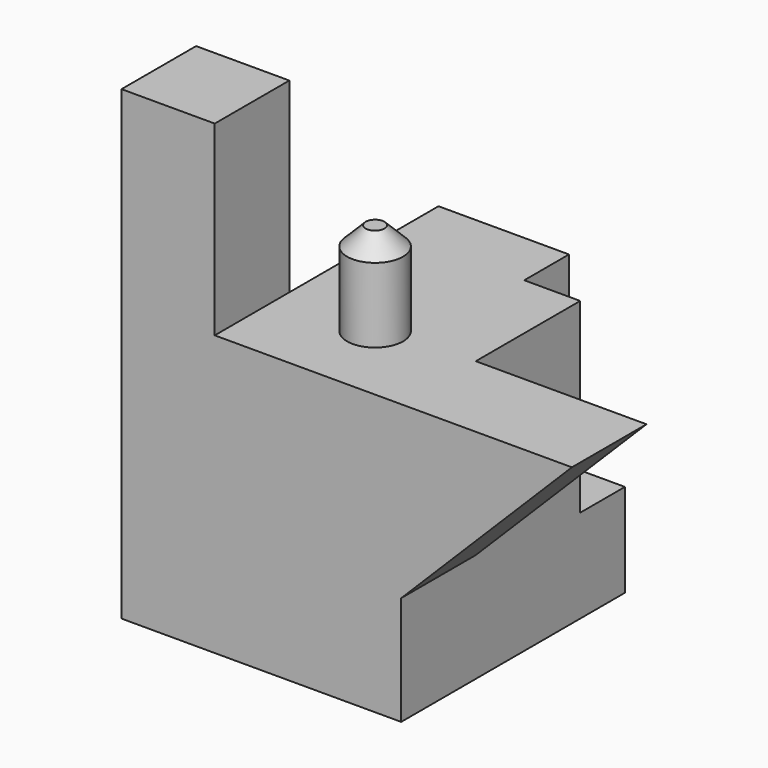
from build123d import *

# Parameters (mm, degrees)
F0_W     = 15
F0_H     = 15
F1_DEPTH = 15
F2_W     = 5
F2_H     = 5
F3_DEPTH = 10
F2_R     = 1.5
F4_DEPTH = 5
F2_W_2   = 3
F2_H_2   = 3
F5_DEPTH = 10
F6_SIZE  = 5
F8_DEPTH = 5
F9_SIZE  = 1


with BuildPart() as f1:
    # F0 (on Top) → F1 (new body)
    with BuildSketch(Plane.XY):
        with Locations((7.5, 0)):
            Rectangle(F0_W, F0_H)
    extrude(amount=F1_DEPTH)

    # F2 (on face) → F3 (join)
    with BuildSketch(Plane.XY.offset(15)):
        with Locations((2.5, -5)):
            Rectangle(F2_W, F2_H)
    extrude(amount=F3_DEPTH)

    # F2 (on face) → F4 (join)
    with BuildSketch(Plane.XY.offset(15)):
        with Locations((10, -3)):
            Circle(F2_R)
    extrude(amount=F4_DEPTH)

    # F2 (on face) → F5 (cut)
    with BuildSketch(Plane.XY.offset(15)):
        with Locations((13.5, 6)):
            Rectangle(F2_W_2, F2_H_2)
    extrude(amount=-F5_DEPTH, mode=Mode.SUBTRACT)

    # F6
    f6_edges = [f1.edges().sort_by_distance(p)[0] for p in [
        (0, 2.5, 15),
    ]]
    chamfer(f6_edges, length=F6_SIZE)

    # F7 (on face) → F8 (join)
    with BuildSketch(Plane.XZ.offset(7.5)):
        Polygon((24.155803, 15), (15, 15), (15, 5.844197), align=None)
    extrude(amount=-F8_DEPTH)

    # F9
    f9_edges = [f1.edges().sort_by_distance(p)[0] for p in [
        (8.5, -3, 20),
    ]]
    chamfer(f9_edges, length=F9_SIZE)


solid = f1.part
